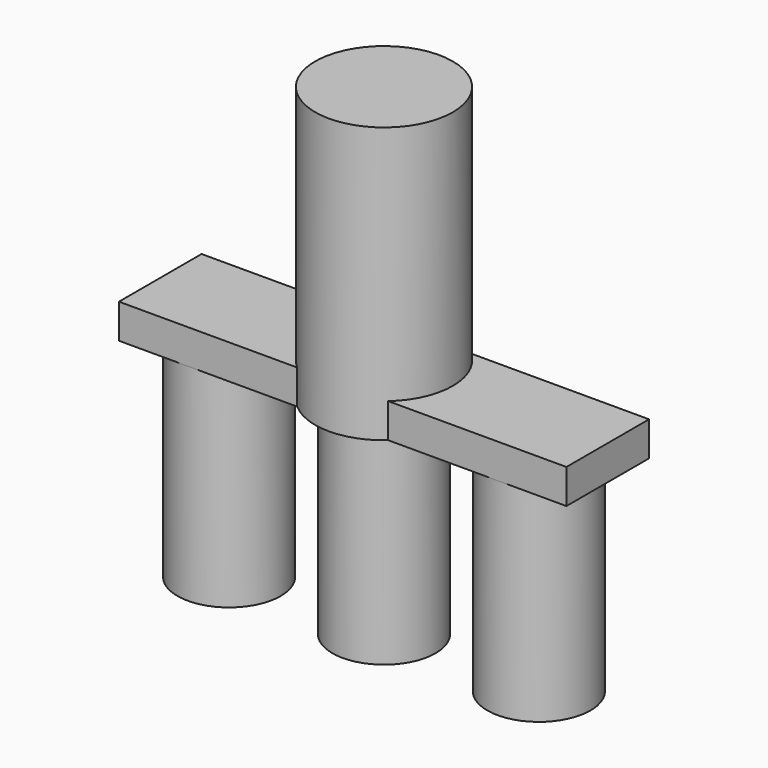
from build123d import *

# Parameters (mm, degrees)
F0_W     = 65
F0_H     = 15
F1_DEPTH = 5
F2_R     = 10
F3_DEPTH = 40
F4_R     = 7.5
F5_DEPTH = 30


with BuildPart() as f1:
    # F0 (on Top) → F1 (new body)
    with BuildSketch(Plane.XY):
        Rectangle(F0_W, F0_H)
        Rectangle(F0_W, F0_H)
    extrude(amount=-F1_DEPTH)

    # F2 (on face) → F3 (join)
    with BuildSketch(Plane(origin=(0, 0, -5), x_dir=(1, 0, 0), z_dir=(0, 0, -1))):
        Circle(F2_R)
    extrude(amount=-F3_DEPTH)

    # F4 (on face) → F5 (join)
    with BuildSketch(Plane(origin=(0, 0, -5), x_dir=(1, 0, 0), z_dir=(0, 0, -1))):
        with BuildLine():
            ThreePointArc((-7.5, 0), (0, -7.5), (7.5, 0))
            ThreePointArc((7.5, 0), (0, 7.5), (-7.5, 0))
        make_face()
        with Locations((-22.5, 0)):
            Circle(F4_R)
        with BuildLine():
            ThreePointArc((30, 0), (22.5, 7.5), (15, 0))
            ThreePointArc((15, 0), (22.5, -7.5), (30, 0))
        make_face()
    extrude(amount=F5_DEPTH)


solid = f1.part
